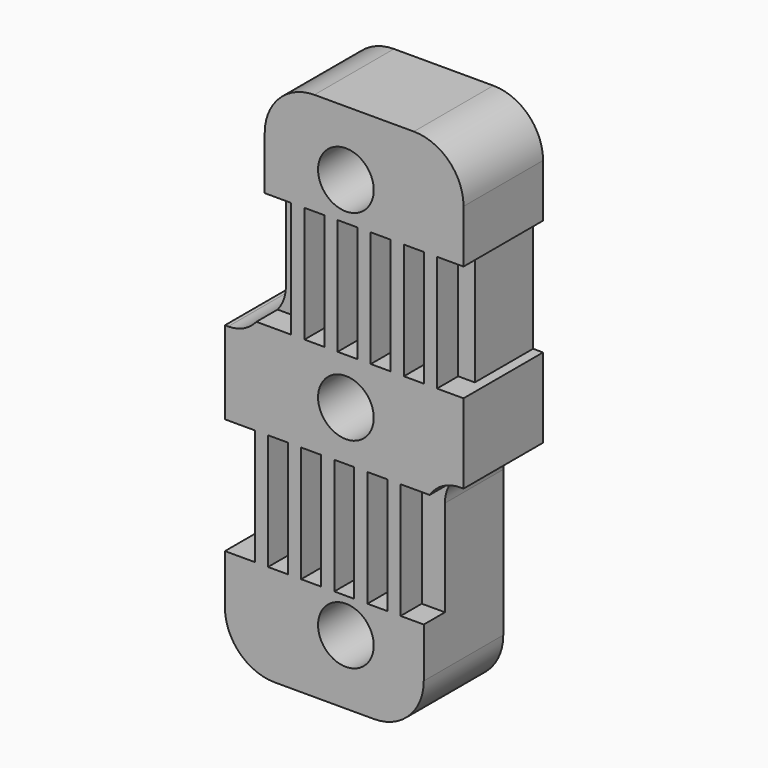
from build123d import *

# Parameters (mm, degrees)
PAD_DEPTH       = 6
SKETCH018_R     = 1.68
POCKET_DEPTH    = 6
SKETCH019_W     = 0.6
SKETCH019_H     = 7
POCKET001_DEPTH = 6
SKETCH020_W     = 1.2
SKETCH020_H     = 7
SKETCH020_W_2   = 1.51546
SKETCH020_W_3   = 1.6
POCKET002_DEPTH = 1.6
FILLET_R        = 2.2
FILLET001_R     = 3


with BuildPart() as part:
    # Sketch017 → Pad (new body)
    with BuildSketch(Plane(origin=(28, 46, 0), x_dir=(-1, 0, 0), z_dir=(0, 1, 0))):
        Polygon((-14.4, 32), (-14.4, 14), (-12, 14), (-12, 0), (0, 0), (0, 18), (-2.4, 18), (-2.4, 32), align=None)
    extrude(amount=PAD_DEPTH)

    # Sketch018 → Pocket (cut)
    with BuildSketch(Plane(origin=(28, 52, 0), x_dir=(-1, 0, 0), z_dir=(0, 1, 0))):
        with Locations((-7.3, 3.9)):
            Circle(SKETCH018_R)
        with Locations((-7.3, 16)):
            Circle(SKETCH018_R)
        with Locations((-7.3, 28.1)):
            Circle(SKETCH018_R)
    extrude(amount=-POCKET_DEPTH, mode=Mode.SUBTRACT)

    # Sketch019 → Pocket001 (cut)
    with BuildSketch(Plane(origin=(28, 52, 0), x_dir=(-1, 0, 0), z_dir=(0, 1, 0))):
        with Locations((-0.3, 9.5)):
            Rectangle(SKETCH019_W, SKETCH019_H)
        with Locations((-14.1, 22.3)):
            Rectangle(SKETCH019_W, SKETCH019_H)
    extrude(amount=-POCKET001_DEPTH, mode=Mode.SUBTRACT)

    # Sketch020 → Pocket002 (cut)
    with BuildSketch(Plane(origin=(28, 46, 0), x_dir=(-1, 0, 0), z_dir=(0, -1, 0))):
        with Locations((-7.2, -9.5)):
            Rectangle(SKETCH020_W, SKETCH020_H)
        with Locations((-5.2, -9.5)):
            Rectangle(SKETCH020_W, SKETCH020_H)
        with Locations((-3.2, -9.5)):
            Rectangle(SKETCH020_W, SKETCH020_H)
        with Locations((-1.2, -9.5)):
            Rectangle(SKETCH020_W, SKETCH020_H)
        with Locations((-11.35773, -9.5)):
            Rectangle(SKETCH020_W_2, SKETCH020_H)
        with Locations((-9.2, -9.5)):
            Rectangle(SKETCH020_W, SKETCH020_H)
        with Locations((-13.4, -22.3)):
            Rectangle(SKETCH020_W, SKETCH020_H)
        with Locations((-11.4, -22.3)):
            Rectangle(SKETCH020_W, SKETCH020_H)
        with Locations((-9.4, -22.3)):
            Rectangle(SKETCH020_W, SKETCH020_H)
        with Locations((-7.4, -22.3)):
            Rectangle(SKETCH020_W, SKETCH020_H)
        with Locations((-5.4, -22.3)):
            Rectangle(SKETCH020_W, SKETCH020_H)
        with Locations((-3.2, -22.3)):
            Rectangle(SKETCH020_W_3, SKETCH020_H)
    extrude(amount=-POCKET002_DEPTH, mode=Mode.SUBTRACT)

    # Fillet
    fillet_edges = [part.edges().sort_by_distance(p)[0] for p in [
        (40, 49, 14),
        (30.4, 49, 18),
    ]]
    fillet(fillet_edges, radius=FILLET_R)

    # Fillet001
    fillet001_edges = [part.edges().sort_by_distance(p)[0] for p in [
        (30.4, 49, 32),
        (42.4, 49, 32),
        (28, 49, 0),
        (40, 49, 0),
    ]]
    fillet(fillet001_edges, radius=FILLET001_R)


solid = part.part
